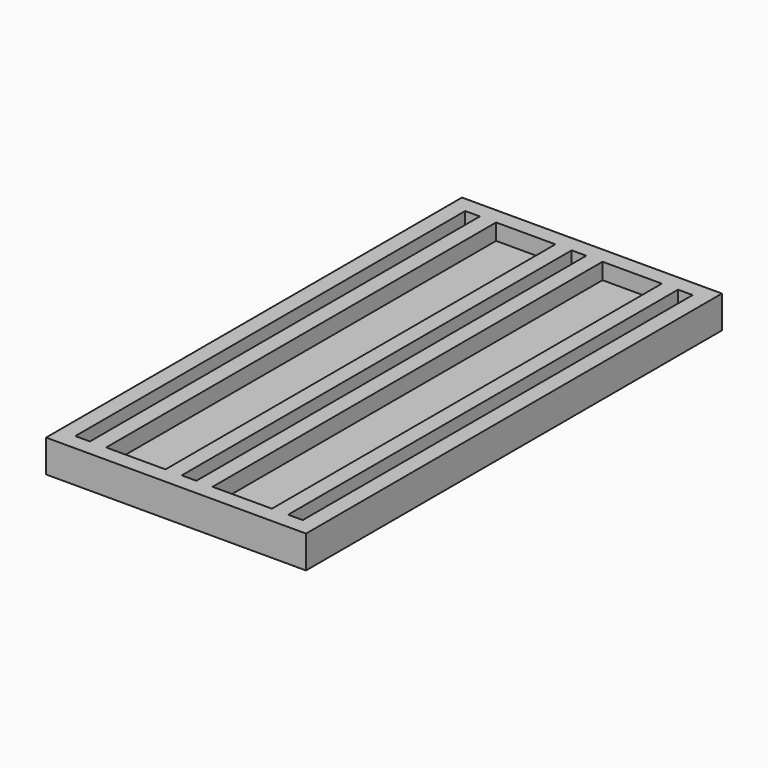
from build123d import *

# Parameters (mm, degrees)
F1_DEPTH      = 30
F1_DEPTH_BACK = 30
F2_W          = 32
F2_H          = 4
F3_DEPTH      = 2
F4_W          = 32
F4_H          = 4
F5_DEPTH      = 2


with BuildPart() as f1:
    # F0 (on Front) → F1 (new body, two sides)
    with BuildSketch(Plane.XZ) as f1_sk:
        Polygon((-16, 4), (-16, 0), (16, 0), (16, 4), (14, 4), (14, 2), (12.2, 2), (12.2, 4), (10.2, 4), (10.2, 2), (2.9, 2), (2.9, 4), (0.9, 4), (0.9, 2), (-0.9, 2), (-0.9, 4), (-2.9, 4), (-2.9, 2), (-10.2, 2), (-10.2, 4), (-12.2, 4), (-12.2, 2), (-14, 2), (-14, 4), align=None)
    extrude(amount=F1_DEPTH)
    extrude(f1_sk.sketch, amount=-F1_DEPTH_BACK)

    # F2 (on face) → F3 (join)
    with BuildSketch(Plane.XZ.offset(30)):
        with Locations((0, 2)):
            Rectangle(F2_W, F2_H)
    extrude(amount=F3_DEPTH)

    # F4 (on face) → F5 (join)
    with BuildSketch(Plane(origin=(0, 30, 0), x_dir=(-1, 0, 0), z_dir=(0, 1, 0))):
        with Locations((0, 2)):
            Rectangle(F4_W, F4_H)
    extrude(amount=F5_DEPTH)


solid = f1.part
